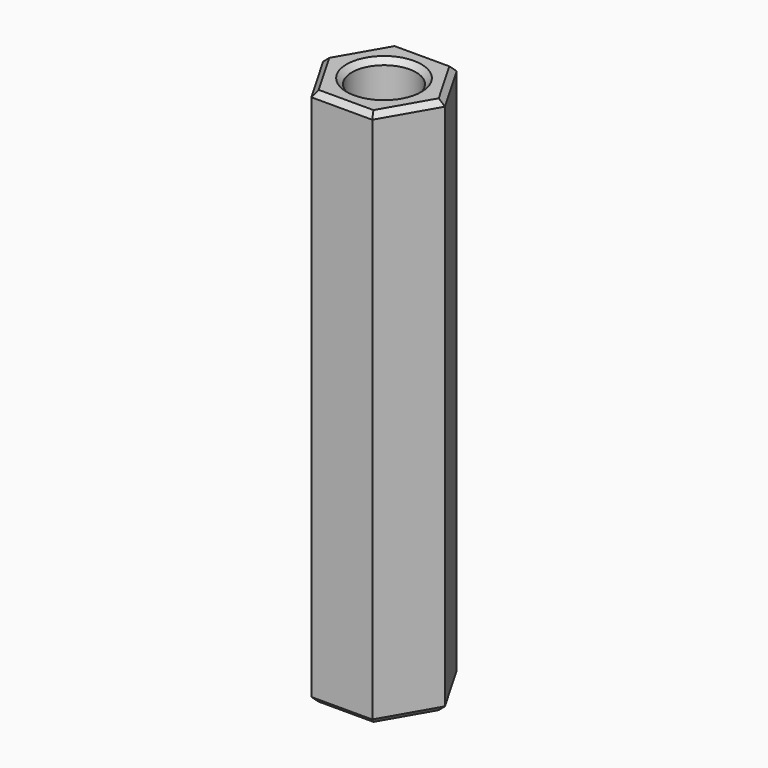
from build123d import *

# Parameters (mm, degrees)
SKETCH_R     = 1.5
PAD_DEPTH    = 25.2
CHAMFER_SIZE = 0.25


with BuildPart() as part:
    # Sketch → Pad (new body)
    with BuildSketch(Plane.XY):
        Polygon((2.85, 0), (1.425, 2.468172), (-1.425, 2.468172), (-2.85, 0), (-1.425, -2.468172), (1.425, -2.468172), align=None)
        Circle(SKETCH_R, mode=Mode.SUBTRACT)
    extrude(amount=PAD_DEPTH)

    # Chamfer
    chamfer_edges = [part.edges().sort_by_distance(p)[0] for p in [
        (2.1375, 1.234086, 0),
        (0, 2.468172, 0),
        (-2.1375, 1.234086, 0),
        (-2.1375, -1.234086, 0),
        (0, -2.468172, 0),
        (2.1375, -1.234086, 0),
        (-1.5, 0, 0),
        (2.1375, 1.234086, 25.2),
        (0, 2.468172, 25.2),
        (-2.1375, 1.234086, 25.2),
        (-2.1375, -1.234086, 25.2),
        (0, -2.468172, 25.2),
        (2.1375, -1.234086, 25.2),
        (-1.5, 0, 25.2),
    ]]
    chamfer(chamfer_edges, length=CHAMFER_SIZE)


solid = part.part
